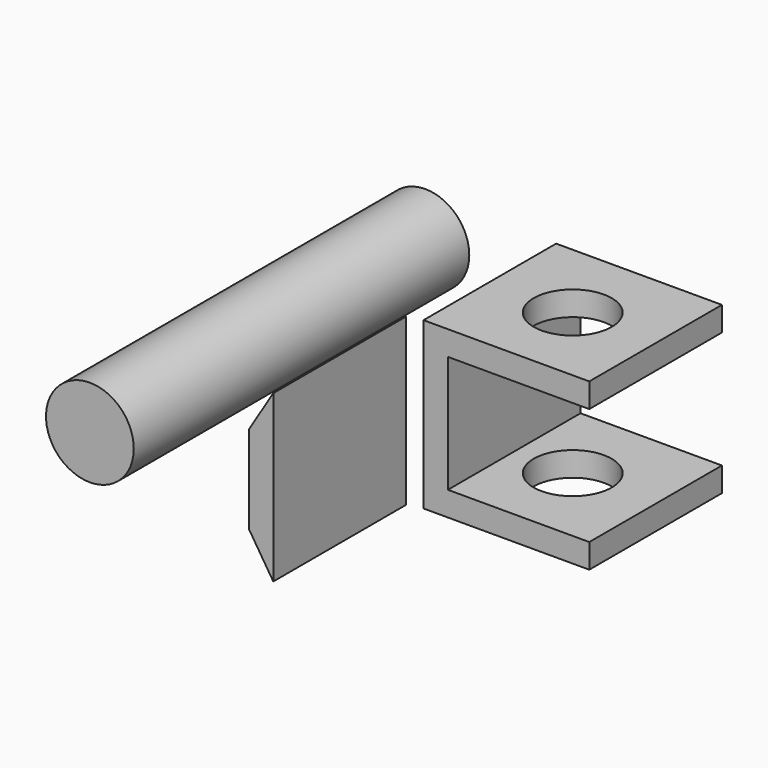
from build123d import *

# Parameters (mm, degrees)
F0_R     = 9
F1_DEPTH = 86
F3_DEPTH = 34
F5_D     = 16


with BuildPart() as f1:
    # F0 (on Front) → F1 (new body)
    with BuildSketch(Plane.XZ):
        with Locations((-62.171057, 33.750001)):
            Circle(F0_R)
    extrude(amount=F1_DEPTH)


with BuildPart() as f3:
    # F2 (on Front) → F3 (new body)
    with BuildSketch(Plane.XZ):
        Polygon((-1.357949, 41.615948), (-35.357949, 41.615948), (-35.357949, 7.615948), (-1.357949, 7.615948), (-1.357949, 12.615948), (-30.357949, 12.615948), (-30.357949, 36.615948), (-1.357949, 36.615948), align=None)
        Polygon((-66.162693, -15.585797), (-66.162693, 18.414203), (-71.162693, 10.265756), (-71.162693, -7.734244), align=None)
    extrude(amount=F3_DEPTH)

    # F5 (through all)
    with Locations(Plane(origin=(0, 0, 7.615948), x_dir=(1, 0, 0), z_dir=(0, 0, -1))):
        with Locations((-18.357949, 17)):
            Hole(F5_D / 2)


solid = Compound([f1.part, f3.part])
